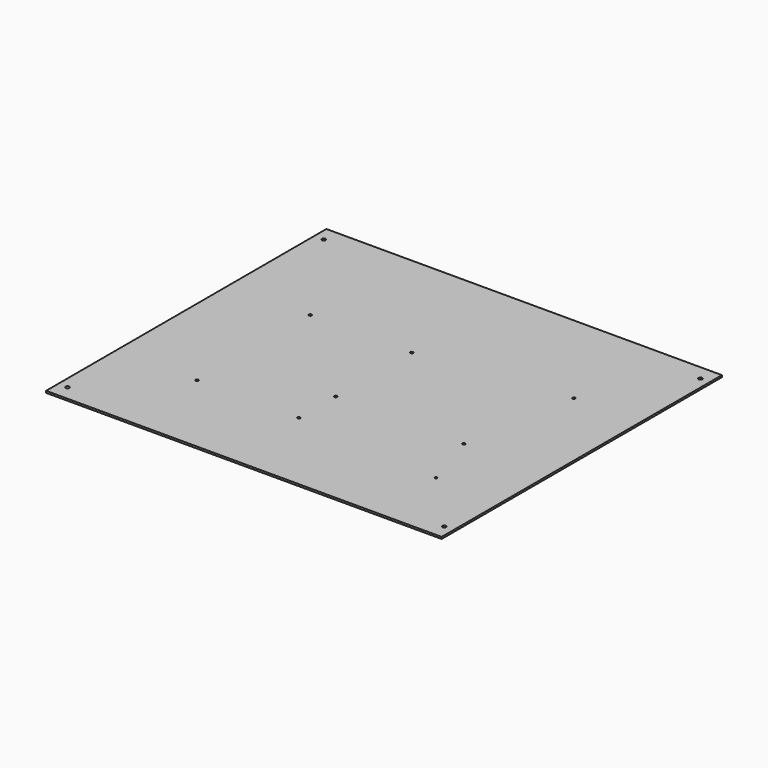
from build123d import *

# Parameters (mm, degrees)
F0_W     = 420
F0_H     = 372
F0_R     = 2
F0_R_2   = 1.5
F0_R_3   = 1.25
F1_DEPTH = 2


with BuildPart() as f1:
    # F0 (on Top) → F1 (new body)
    with BuildSketch(Plane.XY):
        Rectangle(F0_W, F0_H)
        with Locations((-200, -170)):
            Circle(F0_R, mode=Mode.SUBTRACT)
        with Locations((-124, -93)):
            Circle(F0_R_2, mode=Mode.SUBTRACT)
        with Locations((-16, -93)):
            Circle(F0_R_2, mode=Mode.SUBTRACT)
        with Locations((-16, -44)):
            Circle(F0_R_2, mode=Mode.SUBTRACT)
        with Locations((200, -170)):
            Circle(F0_R, mode=Mode.SUBTRACT)
        with Locations((140, -106)):
            Circle(F0_R_3, mode=Mode.SUBTRACT)
        with Locations((120, -44)):
            Circle(F0_R_2, mode=Mode.SUBTRACT)
        with Locations((-124, 57)):
            Circle(F0_R_2, mode=Mode.SUBTRACT)
        with Locations((-16, 57)):
            Circle(F0_R_2, mode=Mode.SUBTRACT)
        with Locations((-200, 170)):
            Circle(F0_R, mode=Mode.SUBTRACT)
        with Locations((140, 77)):
            Circle(F0_R_2, mode=Mode.SUBTRACT)
        with Locations((200, 170)):
            Circle(F0_R, mode=Mode.SUBTRACT)
    extrude(amount=F1_DEPTH)


solid = f1.part
